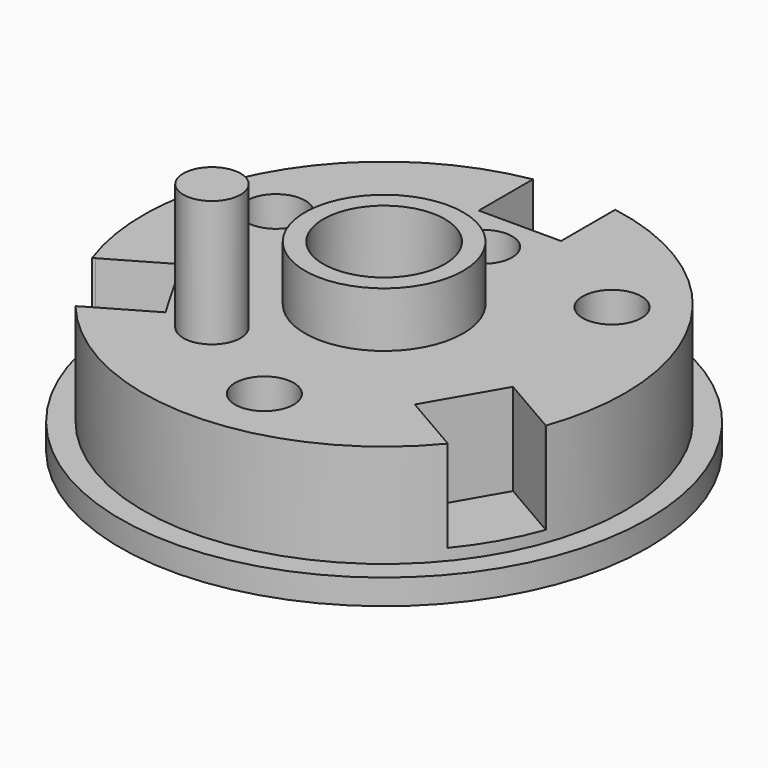
from build123d import *

# Parameters (mm, degrees)
F0_R         = 26.67
F1_DEPTH     = 11.43
F2_R         = 8.763
F2_R_2       = 6.731
F3_DEPTH     = 6.096
F4_R         = 29.21
F4_R_2       = 26.67
F5_DEPTH     = 2.794
F6_R         = 6.731
F7_DEPTH     = 25.4
F8_R         = 12.192
F9_DEPTH     = 10.16
F11_DEPTH    = 10.16
F12_R        = 3.2513011885
F13_DEPTH    = 25.4
F14_R        = 3.175
F15_DEPTH    = 25.4
F16_R        = 3.175
F5_FACE1_R   = 29.21
F5_FACE1_R_2 = 3.2513011885
F5_FACE1_R_3 = 12.192
F5_FACE_R    = 29.21
F5_FACE_R_2  = 3.2513011885
F5_FACE_R_3  = 12.192
F17_DEPTH    = 50.8


with BuildPart() as f1:
    # F0 (on Top) → F1 (new body)
    with BuildSketch(Plane.XY):
        Circle(F0_R)
    extrude(amount=F1_DEPTH)

    # F2 (on face) → F3 (join)
    with BuildSketch(Plane.XY.offset(11.43)):
        Circle(F2_R)
        Circle(F2_R_2, mode=Mode.SUBTRACT)
    extrude(amount=F3_DEPTH)

    # F6 (on Top) → F7 (cut)
    with BuildSketch(Plane.XY):
        Circle(F6_R)
    extrude(amount=F7_DEPTH, mode=Mode.SUBTRACT)


with BuildPart() as f5:
    # F4 (on face) → F5 (new body)
    with BuildSketch(Plane(origin=(0, 0, 0), x_dir=(1, 0, 0), z_dir=(0, 0, -1))):
        Circle(F4_R)
        Circle(F4_R_2, mode=Mode.SUBTRACT)
        Circle(F4_R_2)
    extrude(amount=F5_DEPTH)


with BuildPart() as f9_tool:
    # F8 (on face) → F9 (new body)
    with BuildSketch(Plane(origin=(0, 0, -2.794), x_dir=(1, 0, 0), z_dir=(0, 0, -1))):
        Circle(F8_R)
    extrude(amount=-F9_DEPTH)


with BuildPart() as f1_1:
    add(f1.part)

    # F9: cut by f9_tool
    add(f9_tool.part, mode=Mode.SUBTRACT)

    # F10 (on face) → F11 (cut)
    with BuildSketch(Plane.XY.offset(11.43)):
        with BuildLine():
            Line((4.555173936, 18.7815254891), (4.555173936, 26.2781142857))
            ThreePointArc((4.555173936, 26.2781142857), (0, 31.242), (-4.555173936, 26.2781142857))
            Line((-4.555173936, 26.2781142857), (-4.555173936, 18.7815254891))
            Line((-4.555173936, 18.7815254891), (4.555173936, 18.7815254891))
        make_face()
        with BuildLine():
            ThreePointArc((-24.8446906591, -8.8643595398), (-26.8659548212, -15.2911987441), (-20.2895167231, -16.7541522342))
            Line((-20.2895167231, -16.7541522342), (-13.7972803835, -13.0058578359))
            Line((-13.7972803835, -13.0058578359), (-18.3524543195, -5.1160651415))
            Line((-18.3524543195, -5.1160651415), (-24.8446906591, -8.8643595398))
        make_face()
        with BuildLine():
            ThreePointArc((20.2895167231, -16.7541522342), (26.8659548212, -15.2911987441), (24.8446906591, -8.8643595398))
            Line((24.8446906591, -8.8643595398), (18.3524543195, -5.1160651415))
            Line((18.3524543195, -5.1160651415), (13.7972803835, -13.0058578359))
            Line((13.7972803835, -13.0058578359), (20.2895167231, -16.7541522342))
        make_face()
    extrude(amount=-F11_DEPTH, mode=Mode.SUBTRACT)


with BuildPart() as f5_1:
    add(f5.part)

    # F9: cut by f9_tool
    add(f9_tool.part, mode=Mode.SUBTRACT)


with BuildPart() as f13_tool:
    # F12 (on face) → F13 (new body)
    with BuildSketch(Plane.XY.offset(11.43)):
        with Locations((15.7385375351, 11.855901219)):
            Circle(F12_R)
        with Locations((-18.1367804079, 7.7020227143)):
            Circle(F12_R)
        with Locations((2.3982428728, -19.5579239333)):
            Circle(F12_R)
    extrude(amount=-F13_DEPTH)


with BuildPart() as f1_2:
    add(f1_1.part)

    # F13: cut by f13_tool
    add(f13_tool.part, mode=Mode.SUBTRACT)

    # F16 (on face) + F5_face1 (on face) + F5_face (on face) → F17 (cut)
    with BuildSketch(Plane.XY.offset(11.43)):
        with Locations((0, 13.7386375334)):
            Circle(F16_R)
    with BuildSketch(Plane.XY):
        Circle(F5_FACE1_R)
        with Locations((-18.1367804079, 7.7020227143)):
            Circle(F5_FACE1_R_2, mode=Mode.SUBTRACT)
        with Locations((15.7385375351, 11.855901219)):
            Circle(F5_FACE1_R_2, mode=Mode.SUBTRACT)
        Circle(F5_FACE1_R_3, mode=Mode.SUBTRACT)
        with Locations((2.3982428728, -19.5579239333)):
            Circle(F5_FACE1_R_2, mode=Mode.SUBTRACT)
    with BuildSketch(Plane(origin=(0, 0, -2.794), x_dir=(1, 0, 0), z_dir=(0, 0, -1))):
        Circle(F5_FACE_R)
        with Locations((-18.1367804079, -7.7020227143)):
            Circle(F5_FACE_R_2, mode=Mode.SUBTRACT)
        with Locations((15.7385375351, -11.855901219)):
            Circle(F5_FACE_R_2, mode=Mode.SUBTRACT)
        Circle(F5_FACE_R_3, mode=Mode.SUBTRACT)
        with Locations((2.3982428728, 19.5579239333)):
            Circle(F5_FACE_R_2, mode=Mode.SUBTRACT)
    extrude(amount=-F17_DEPTH, dir=(0, 0, 1), mode=Mode.SUBTRACT)


with BuildPart() as f5_2:
    add(f5_1.part)

    # F13: cut by f13_tool
    add(f13_tool.part, mode=Mode.SUBTRACT)


with BuildPart() as f15:
    # F14 (on Top) → F15 (new body)
    with BuildSketch(Plane.XY):
        with Locations((-8.89, -12.7)):
            Circle(F14_R)
    extrude(amount=F15_DEPTH)


solid = Compound([f1_2.part, f5_2.part, f15.part])
